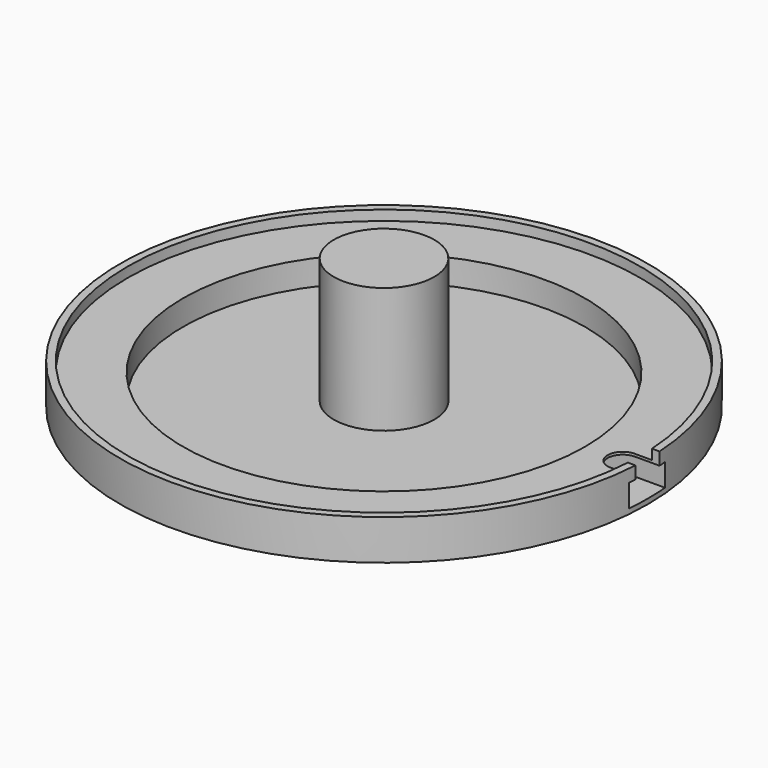
from build123d import *

# Parameters (mm, degrees)
F0_R      = 52.5
F0_R_2    = 51
F0_R_3    = 40
F1_DEPTH  = 1
F2_DEPTH  = 5
F3_DEPTH  = 7
F4_W      = 20
F4_H      = 9
F5_DEPTH  = 4.5
F6_R      = 3
F7_DEPTH  = 7.001
F8_W      = 8.0645383788
F8_H      = 6
F9_DEPTH  = 10
F10_R     = 10
F11_DEPTH = 25


with BuildPart() as f1:
    # F0 (on Top) → F1 (new body)
    with BuildSketch(Plane.XY):
        Circle(F0_R)
        Circle(F0_R_2, mode=Mode.SUBTRACT)
        Circle(F0_R_2)
        Circle(F0_R_3, mode=Mode.SUBTRACT)
        Circle(F0_R_3)
    extrude(amount=-F1_DEPTH)

    # F0 (on Top) → F2 (join)
    with BuildSketch(Plane.XY):
        Circle(F0_R_2)
        Circle(F0_R_3, mode=Mode.SUBTRACT)
    extrude(amount=F2_DEPTH)

    # F0 (on Top) → F3 (join)
    with BuildSketch(Plane.XY):
        Circle(F0_R)
        Circle(F0_R_2, mode=Mode.SUBTRACT)
    extrude(amount=F3_DEPTH)

    # F4 (on Top) → F5 (cut)
    with BuildSketch(Plane.XY):
        with Locations((45, 0)):
            Rectangle(F4_W, F4_H)
    extrude(amount=F5_DEPTH, mode=Mode.SUBTRACT)

    # F6 (on Top) → F7 (cut, through all)
    with BuildSketch(Plane.XY):
        with Locations((47.5, 0)):
            Circle(F6_R)
    extrude(amount=F7_DEPTH, mode=Mode.SUBTRACT)

    # F8 (on Top) → F9 (cut)
    with BuildSketch(Plane.XY):
        with Locations((51.5776195013, 0)):
            Rectangle(F8_W, F8_H)
    extrude(amount=F9_DEPTH, mode=Mode.SUBTRACT)

    # F10 (on face) → F11 (join)
    with BuildSketch(Plane.XY):
        Circle(F10_R)
    extrude(amount=F11_DEPTH)


solid = f1.part
